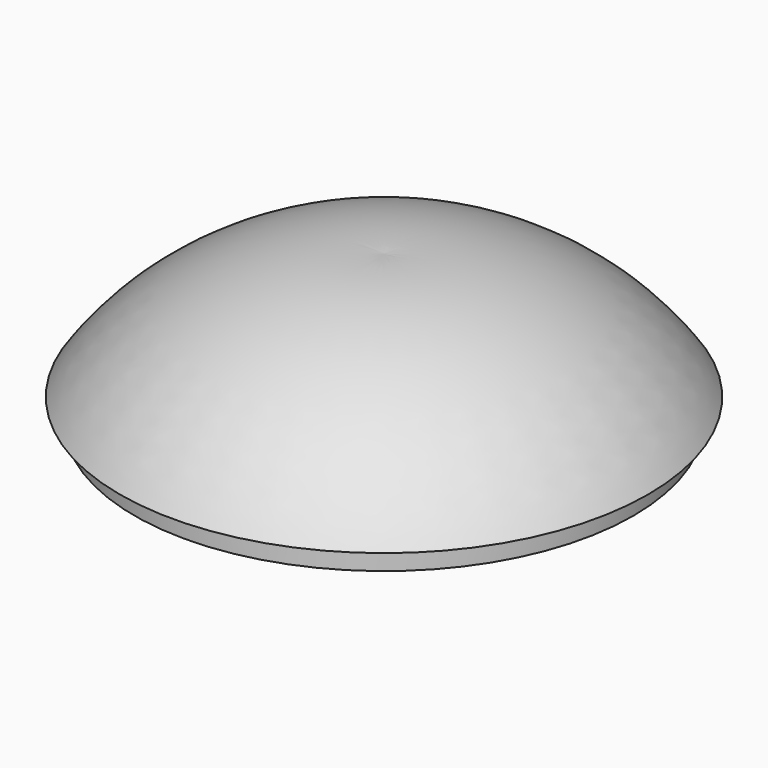
from build123d import *

# Parameters (mm, degrees)
F3_DEPTH = 8


with BuildPart() as f2:
    # F1 (on Front) → F2 (revolve)
    with BuildSketch(Plane.XZ):
        with BuildLine():
            Line((-85, 0), (-82, 0))
            ThreePointArc((-82, 0), (-46.8215273927, 31.9341311551), (0, 40))
            Line((0, 40), (0, 43))
            ThreePointArc((0, 43), (-50.7439336034, 33.5221866117), (-90, 0))
            Line((-90, 0), (-85, 0))
        make_face()
    revolve(axis=Axis((0, 0, 0), (0, 0, 1)))

    # F0 (on Top) → F3 (join)
    with BuildSketch(Plane.XY):
        with BuildLine():
            ThreePointArc((85, 0), (0, 85), (-85, 0))
            ThreePointArc((-85, 0), (0, -85), (85, 0))
        make_face()
        with BuildLine():
            ThreePointArc((82, 0), (0, -82), (-82, 0))
            ThreePointArc((-82, 0), (0, 82), (82, 0))
        make_face(mode=Mode.SUBTRACT)
    extrude(amount=-F3_DEPTH)


solid = f2.part
